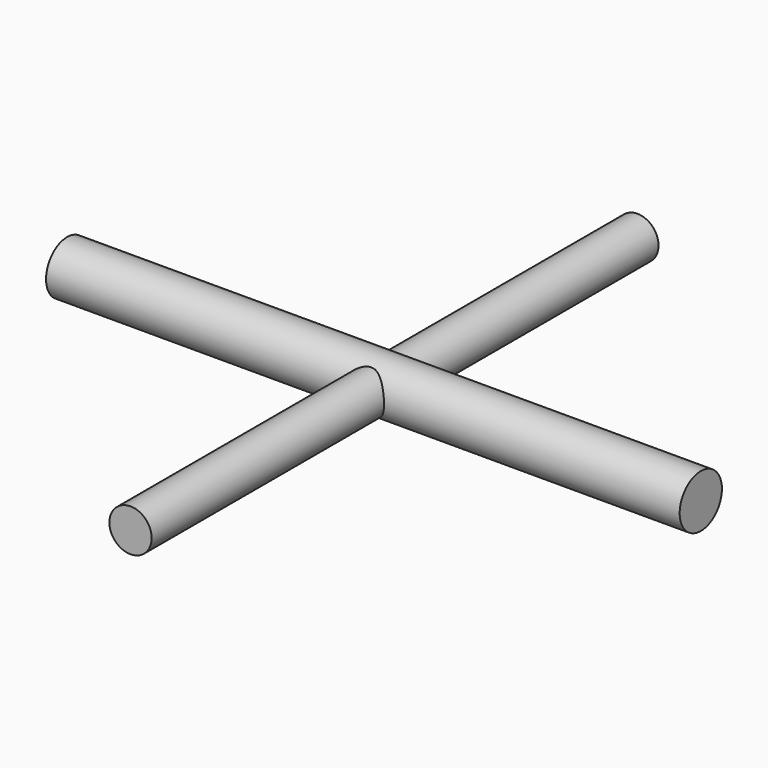
from build123d import *

# Parameters (mm, degrees)
F0_R          = 4
F1_DEPTH      = 120
F2_R          = 5
F3_DEPTH      = 60
F3_DEPTH_BACK = 60


with BuildPart() as f1:
    # F0 (on Front) → F1 (new body)
    with BuildSketch(Plane.XZ):
        Circle(F0_R)
    extrude(amount=F1_DEPTH)


with BuildPart() as f3:
    # F2 (on Right) → F3 (new body, two sides)
    with BuildSketch(Plane.YZ) as f3_sk:
        with Locations((-60, 0)):
            Circle(F2_R)
    extrude(amount=F3_DEPTH)
    extrude(f3_sk.sketch, amount=-F3_DEPTH_BACK)


solid = Compound([f1.part, f3.part])
